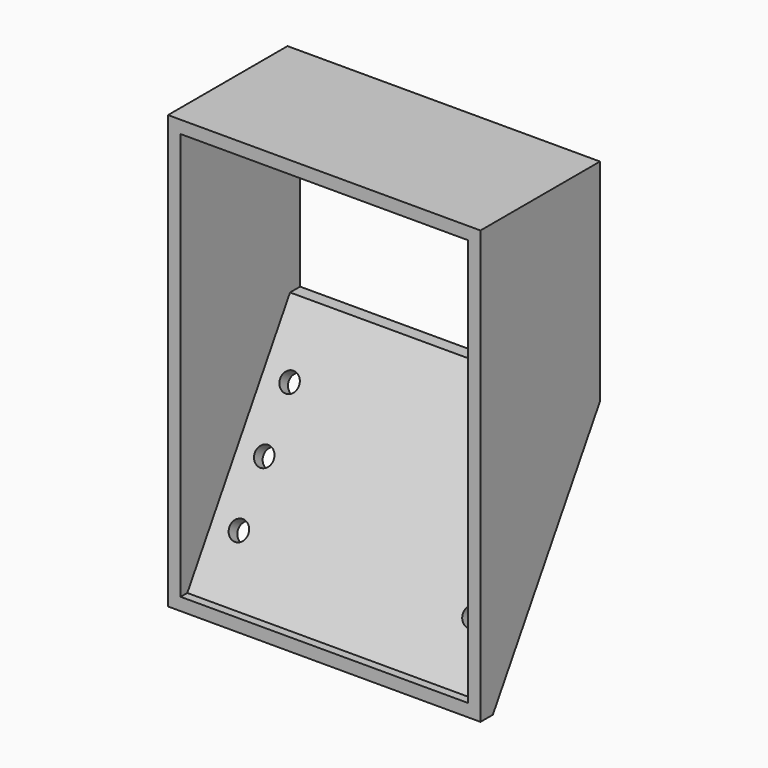
from build123d import *

# Parameters (mm, degrees)
F1_DEPTH = 49.5
F2_T     = -2
F3_W     = 45.5
F3_H     = 30.895506
F4_DEPTH = 25
F5_R     = 1.5
F6_DEPTH = 25


with BuildPart() as f1:
    # F0 (on Right) → F1 (new body)
    with BuildSketch(Plane.YZ):
        Polygon((14.57045, 3.255325), (-9.091535, 3.255325), (-9.091535, -65.282837), (-6.643743, -65.282837), (14.57045, -30.197826), align=None)
    extrude(amount=F1_DEPTH)

    # F2
    f2_openings = [f1.faces().sort_by_distance(p)[0] for p in [
        (24.75, -9.091535, -31.013756),
    ]]
    offset(amount=F2_T, openings=f2_openings)

    # F3 (on face) → F4 (cut)
    with BuildSketch(Plane.XZ.offset(-12.57045)):
        with Locations((24.75, -14.192428)):
            Rectangle(F3_W, F3_H)
    extrude(amount=-F4_DEPTH, mode=Mode.SUBTRACT)

    # F5 (on face) → F6 (cut)
    with BuildSketch(Plane(origin=(0, 24.040368, -14.536037), x_dir=(-1, 0, 0), z_dir=(0, 0.855732, -0.517419))):
        with Locations((-43.25, -29.302213)):
            Circle(F5_R)
        with Locations((-43.25, -39.002213)):
            Circle(F5_R)
        with Locations((-43.25, -48.702213)):
            Circle(F5_R)
        with Locations((-6.25, -29.302213)):
            Circle(F5_R)
        with Locations((-6.25, -39.002213)):
            Circle(F5_R)
        with Locations((-6.25, -48.702213)):
            Circle(F5_R)
    extrude(amount=-F6_DEPTH, mode=Mode.SUBTRACT)


solid = f1.part
